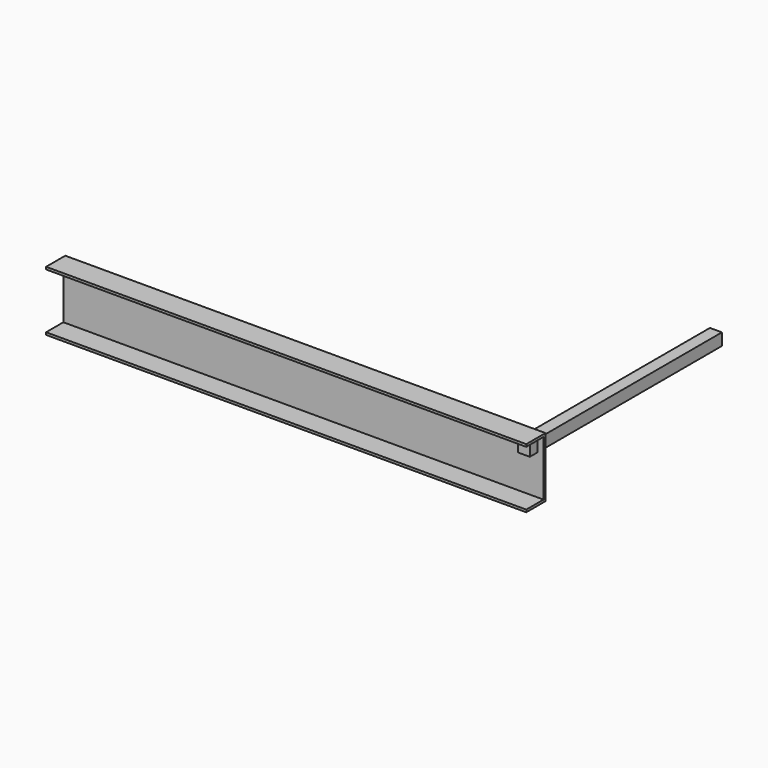
from build123d import *

# Parameters (mm, degrees)
F0_W     = 2.54
F0_H     = 6.35
F1_DEPTH = 50.8
F2_W     = 2.54
F2_H     = 5.842
F3_DEPTH = 76.2
F4_W     = 1.27
F4_H     = 1.27
F5_DEPTH = 25.4


with BuildPart() as f1:
    # F0 (on Right) → F1 (new body)
    with BuildSketch(Plane.YZ):
        Rectangle(F0_W, F0_H)
    extrude(amount=-F1_DEPTH)

    # F2 (on Right) → F3 (cut)
    with BuildSketch(Plane.YZ):
        with Locations((-0.254, 0)):
            Rectangle(F2_W, F2_H)
    extrude(amount=-F3_DEPTH, mode=Mode.SUBTRACT)


with BuildPart() as f5:
    # F4 (on Front) → F5 (new body)
    with BuildSketch(Plane.XZ):
        with Locations((-1.27, 1.905)):
            Rectangle(F4_W, F4_H)
    extrude(amount=-F5_DEPTH)


solid = Compound([f1.part, f5.part])
